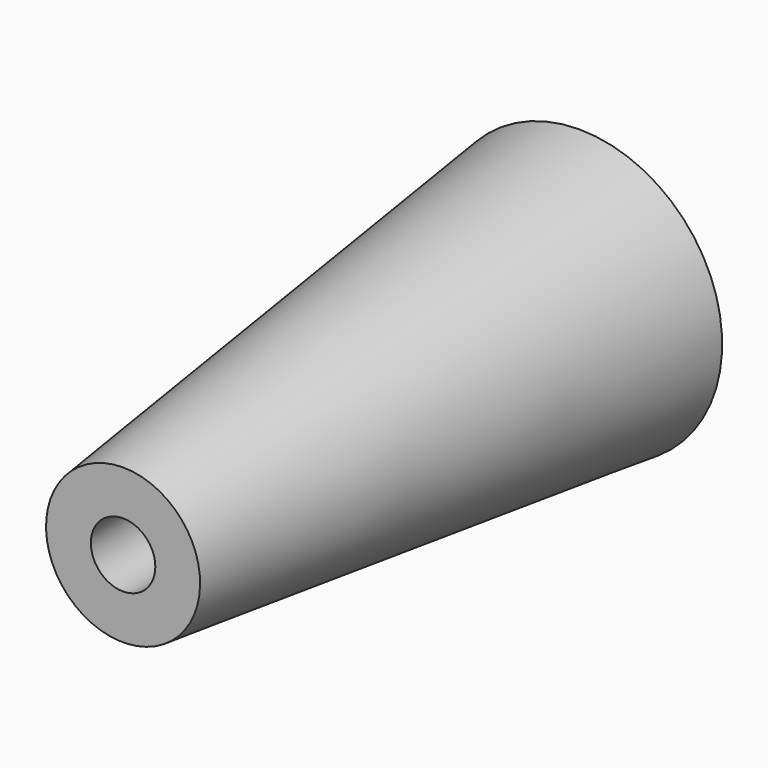
from build123d import *

# Parameters (mm, degrees)
F0_R     = 12.7
F1_DEPTH = 63.5
F3_D     = 5.7404
F3_DEPTH = 63.5
F7_D     = 5.7404
F7_DEPTH = 50.8


with BuildPart() as f1:
    # F0 (on Front) → F1 (new body)
    with BuildSketch(Plane.XZ):
        Circle(F0_R)
    extrude(amount=F1_DEPTH)

    # F3
    with Locations(Plane(origin=(0, 0, 0), x_dir=(1, 0, 0), z_dir=(0, 1, 0))):
        with Locations((0, 0)):
            Hole(F3_D / 2, depth=F3_DEPTH)


with BuildPart() as f5:
    # F4 (on Right) → F5 (revolve)
    with BuildSketch(Plane.YZ):
        Polygon((-69.515724, 40.979306), (-18.715724, 40.979306), (-18.715724, 53.679306), (-69.515724, 47.837306), align=None)
    revolve(axis=Axis((0, -44.115724, 40.979306), (0, -1, 0)))

    # F7
    with Locations(Plane(origin=(0, -18.715724, 0), x_dir=(-1, 0, 0), z_dir=(0, 1, 0))):
        with Locations((0, 40.979306)):
            Hole(F7_D / 2, depth=F7_DEPTH)


solid = f5.part
